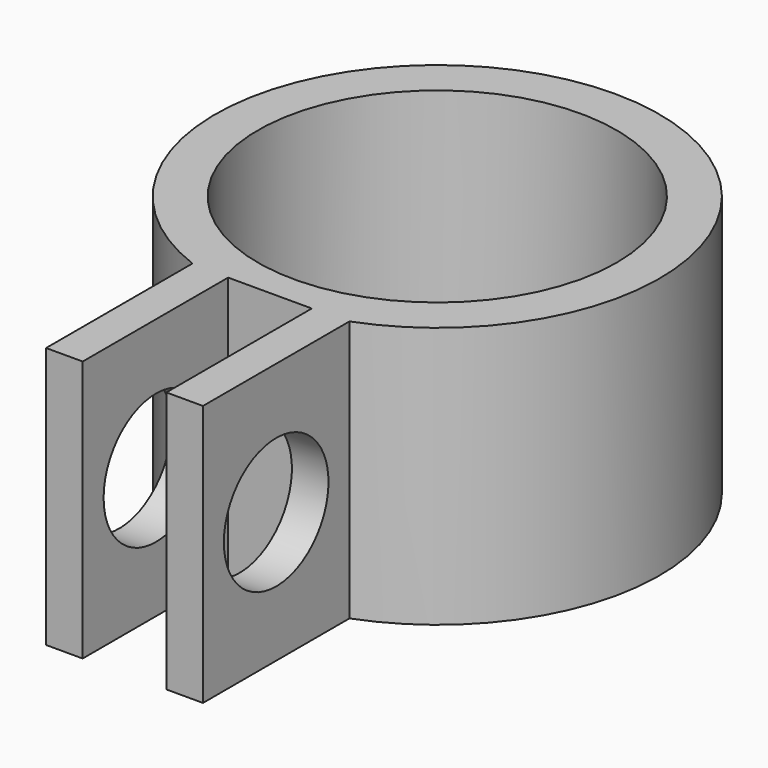
from build123d import *

# Parameters (mm, degrees)
F0_R     = 6.86
F1_DEPTH = 10
F2_R     = 2.5
F3_DEPTH = 11.501


with BuildPart() as f1:
    # F0 (on Top) → F1 (new body)
    with BuildSketch(Plane.XY):
        with BuildLine():
            Line((3, -14.952987), (3, -7.952987))
            ThreePointArc((3, -7.952987), (0, 8.5), (-3, -7.952987))
            Line((-3, -7.952987), (-3, -14.952987))
            Line((-3, -14.952987), (-1.6, -14.952987))
            Line((-1.6, -14.952987), (-1.6, -8))
            Line((-1.6, -8), (1.6, -8))
            Line((1.6, -8), (1.6, -14.952987))
            Line((1.6, -14.952987), (3, -14.952987))
        make_face()
        Circle(F0_R, mode=Mode.SUBTRACT)
    extrude(amount=F1_DEPTH)

    # F2 (on face) → F3 (cut, through all)
    with BuildSketch(Plane(origin=(-3, 0, 0), x_dir=(0, -1, 0), z_dir=(-1, 0, 0))):
        with Locations((11.452987, 5)):
            Circle(F2_R)
    extrude(amount=-F3_DEPTH, mode=Mode.SUBTRACT)


solid = f1.part
